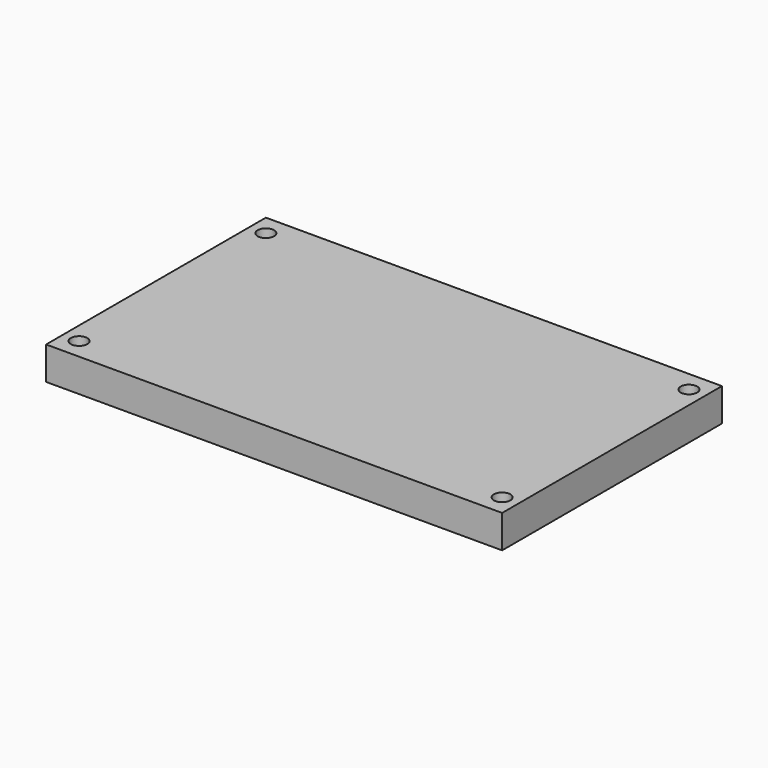
from build123d import *

# Parameters (mm, degrees)
F0_W     = 166
F0_H     = 100
F1_DEPTH = 12
F2_R     = 3
F3_DEPTH = 12.001


with BuildPart() as f1:
    # F0 (on Top) → F1 (new body)
    with BuildSketch(Plane.XY):
        with Locations((83, 50)):
            Rectangle(F0_W, F0_H)
    extrude(amount=F1_DEPTH)

    # F2 (on face) → F3 (cut, through all)
    with BuildSketch(Plane.XY.offset(12)):
        with Locations((6, 92.5)):
            Circle(F2_R)
        with Locations((6, 7.5)):
            Circle(F2_R)
        with Locations((160, 7.5)):
            Circle(F2_R)
        with Locations((160, 92.5)):
            Circle(F2_R)
    extrude(amount=-F3_DEPTH, mode=Mode.SUBTRACT)


solid = f1.part
